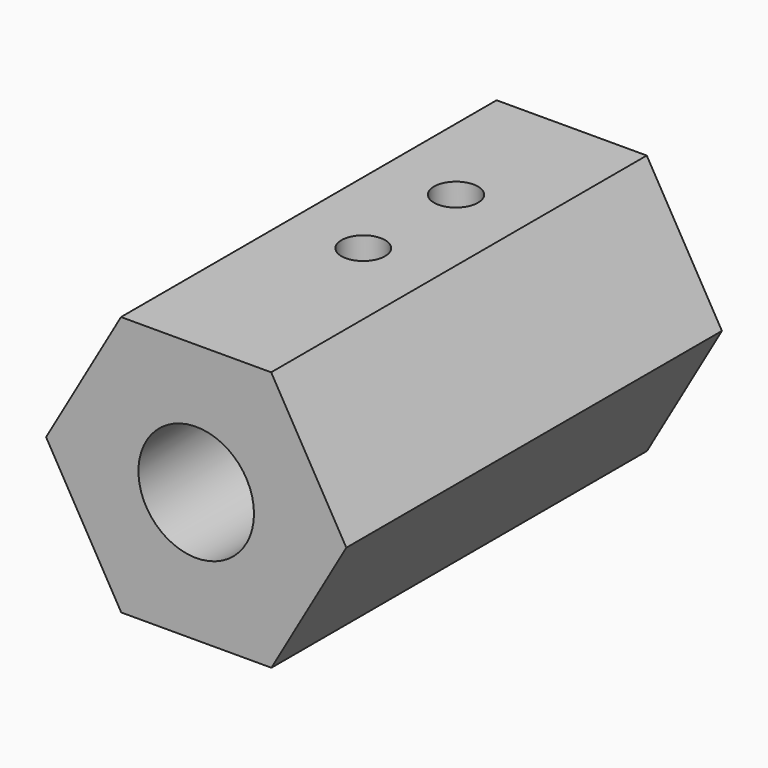
from build123d import *

# Parameters (mm, degrees)
F1_DEPTH  = 65
F2_R      = 6
F3_DEPTH  = 65
F4_R      = 3.0447564862
F5_DEPTH  = 36
F6_R      = 3.0186568284
F7_DEPTH  = 36
F8_R      = 1.75
F9_DEPTH  = 14
F10_R     = 2.5
F11_DEPTH = 14
F12_R     = 8
F12_R_2   = 6
F13_DEPTH = 19
F16_D     = 4
F16_DEPTH = 12
F16_TIP   = 1.2017212381
F18_D     = 4
F18_DEPTH = 12
F18_TIP   = 1.2017212381
F20_D     = 6
F20_DEPTH = 8
F20_TIP   = 1.8025818571
F22_D     = 6
F22_DEPTH = 10
F22_TIP   = 1.8025818571


with BuildPart() as f1:
    # F0 (on Front) → F1 (new body)
    with BuildSketch(Plane.XZ):
        Polygon((10.4105382668, -17.9894606088), (20.784599021, 0.0210603017), (10.3740607542, 18.0105209105), (-10.4105382668, 17.9894606088), (-20.784599021, -0.0210603017), (-10.3740607542, -18.0105209105), align=None)
    extrude(amount=F1_DEPTH)

    # F2 (on face) → F3 (cut)
    with BuildSketch(Plane.XZ.offset(65)):
        Circle(F2_R)
    extrude(amount=-F3_DEPTH, mode=Mode.SUBTRACT)

    # F4 (on face) → F5 (cut)
    with BuildSketch(Plane(origin=(-0.0182387563, 0, 17.9999907597), x_dir=(0.9999994866, 0, 0.0010132642), z_dir=(-0.0010132642, 0, 0.9999994866))):
        with Locations((0, -20.0090762228)):
            Circle(F4_R)
    extrude(amount=-F5_DEPTH, mode=Mode.SUBTRACT)

    # F6 (on face) → F7 (cut)
    with BuildSketch(Plane(origin=(-0.0182387563, 0, 17.9999907597), x_dir=(0.9999994866, 0, 0.0010132642), z_dir=(-0.0010132642, 0, 0.9999994866))):
        with Locations((0, -36.0637567937)):
            Circle(F6_R)
    extrude(amount=-F7_DEPTH, mode=Mode.SUBTRACT)

    # F8 (on face) → F9 (cut)
    with BuildSketch(Plane(origin=(0.0182387563, 0, -17.9999907597), x_dir=(0.9999994866, 0, 0.0010132642), z_dir=(0.0010132642, 0, -0.9999994866))):
        with Locations((0, 7)):
            Circle(F8_R)
    extrude(amount=-F9_DEPTH, mode=Mode.SUBTRACT)

    # F10 (on face) → F11 (cut)
    with BuildSketch(Plane(origin=(0.0182387563, 0, -17.9999907597), x_dir=(0.9999994866, 0, 0.0010132642), z_dir=(0.0010132642, 0, -0.9999994866))):
        with Locations((0, 50.5)):
            Circle(F10_R)
    extrude(amount=-F11_DEPTH, mode=Mode.SUBTRACT)

    # F12 (on face) → F13 (cut)
    with BuildSketch(Plane.XZ.offset(65)):
        Circle(F12_R)
        Circle(F12_R_2, mode=Mode.SUBTRACT)
    extrude(amount=-F13_DEPTH, mode=Mode.SUBTRACT)

    # F16
    with Locations(Plane(origin=(0, 0, 0), x_dir=(-1, 0, 0), z_dir=(0, 1, 0))):
        with Locations((0, 12)):
            Hole(F16_D / 2, depth=F16_DEPTH)
            with Locations((0, 0, -(F16_DEPTH + F16_TIP / 2))):  # 118° drill point
                Cone(0, F16_D / 2, F16_TIP, mode=Mode.SUBTRACT)

    # F18
    with Locations(Plane(origin=(0, 0, 0), x_dir=(-1, 0, 0), z_dir=(0, 1, 0))):
        with Locations((0, -12)):
            Hole(F18_D / 2, depth=F18_DEPTH)
            with Locations((0, 0, -(F18_DEPTH + F18_TIP / 2))):  # 118° drill point
                Cone(0, F18_D / 2, F18_TIP, mode=Mode.SUBTRACT)

    # F20
    with Locations(Plane(origin=(0.0182387563, 0, -17.9999907597), x_dir=(0.9999994866, 0, 0.0010132642), z_dir=(0.0010132642, 0, -0.9999994866))):
        with Locations((0, 59)):
            Hole(F20_D / 2, depth=F20_DEPTH)
            with Locations((0, 0, -(F20_DEPTH + F20_TIP / 2))):  # 118° drill point
                Cone(0, F20_D / 2, F20_TIP, mode=Mode.SUBTRACT)

    # F22
    with Locations(Plane(origin=(0.0182387563, 0, -17.9999907597), x_dir=(0.9999994866, 0, 0.0010132642), z_dir=(0.0010132642, 0, -0.9999994866))):
        with Locations((0, 12.5)):
            Hole(F22_D / 2, depth=F22_DEPTH)
            with Locations((0, 0, -(F22_DEPTH + F22_TIP / 2))):  # 118° drill point
                Cone(0, F22_D / 2, F22_TIP, mode=Mode.SUBTRACT)


solid = f1.part
